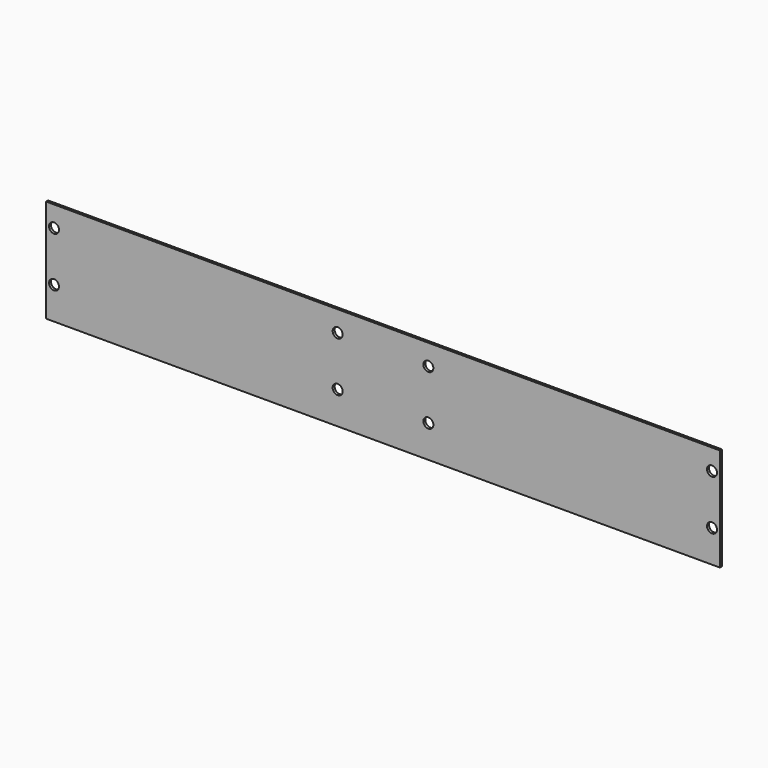
from build123d import *

# Parameters (mm, degrees)
F0_W     = 270
F0_H     = 41.311
F0_R     = 2
F1_DEPTH = 1


with BuildPart() as f1:
    # F0 (on Front) → F1 (new body)
    with BuildSketch(Plane.XZ):
        with Locations((135, 20.6555)):
            Rectangle(F0_W, F0_H)
        with Locations((3.175, 13)):
            Circle(F0_R, mode=Mode.SUBTRACT)
        with Locations((116.825, 13)):
            Circle(F0_R, mode=Mode.SUBTRACT)
        with Locations((153.175, 13)):
            Circle(F0_R, mode=Mode.SUBTRACT)
        with Locations((266.825, 13)):
            Circle(F0_R, mode=Mode.SUBTRACT)
        with Locations((3.175, 33)):
            Circle(F0_R, mode=Mode.SUBTRACT)
        with Locations((116.825, 33)):
            Circle(F0_R, mode=Mode.SUBTRACT)
        with Locations((153.175, 33)):
            Circle(F0_R, mode=Mode.SUBTRACT)
        with Locations((266.825, 33)):
            Circle(F0_R, mode=Mode.SUBTRACT)
    extrude(amount=F1_DEPTH)


solid = f1.part
